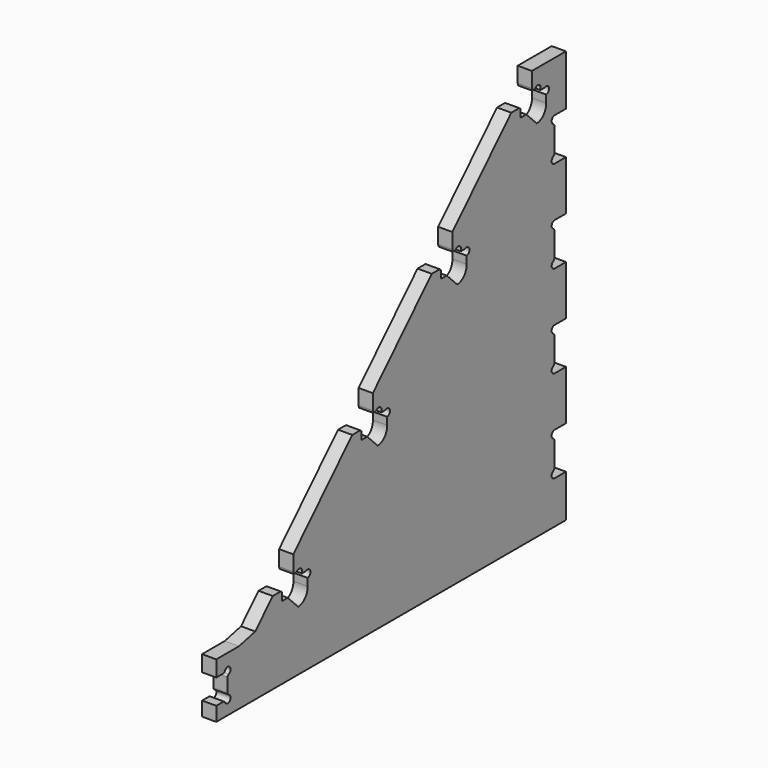
from build123d import *

# Parameters (mm, degrees)
F1_DEPTH = 12.7
F2_DEPTH = 12.7
F4_DEPTH = 25.4
F6_DEPTH = 25.4
F8_DEPTH = 25.4


with BuildPart() as f1:
    # F0 (on Right) → F1 (new body)
    with BuildSketch(Plane.YZ):
        Polygon((304.799962, -64.221394), (304.799962, 304.800038), (266.7, 304.85419), (-42.510699, -10.741028), (-60.690689, -14.973944), (-60.690689, -19.789347), (-60.690689, -29.296394), (-60.690689, -64.221394), align=None)
        Polygon((-86.090689, -64.221394), (-60.690689, -64.221394), (-60.690689, -29.296394), (-60.690689, -19.789347), (-60.690689, -14.973944), (-86.090689, -14.973944), align=None)
    extrude(amount=F1_DEPTH)

    # F0 (on Right) → F2 (join)
    with BuildSketch(Plane.YZ):
        Polygon((304.799962, -64.221394), (304.799962, 304.800038), (266.7, 304.85419), (-42.510699, -10.741028), (-60.690689, -14.973944), (-60.690689, -19.789347), (-60.690689, -29.296394), (-60.690689, -64.221394), align=None)
        Polygon((-86.090689, -64.221394), (-60.690689, -64.221394), (-60.690689, -29.296394), (-60.690689, -19.789347), (-60.690689, -14.973944), (-86.090689, -14.973944), align=None)
    extrude(amount=F2_DEPTH)

    # F3 (on face) → F4 (cut)
    with BuildSketch(Plane.YZ.offset(12.7)):
        with BuildLine():
            Line((260.440068, 273.135901), (272.189458, 261.271445))
            ThreePointArc((272.189458, 261.271445), (279.866661, 265.037294), (282.611404, 273.135901))
            Line((282.611404, 273.135901), (282.614132, 279.79518))
            ThreePointArc((282.614132, 279.79518), (285.773725, 284.060884), (280.770869, 285.835901))
            Line((280.770869, 285.835901), (276.240647, 285.835901))
            ThreePointArc((276.240647, 285.835901), (276.167259, 285.912573), (276.174208, 286.018478))
            ThreePointArc((276.174208, 286.018478), (275.105821, 290.411047), (270.654796, 289.620796))
            Line((270.654796, 289.620796), (267.401841, 288.920168))
            ThreePointArc((267.401841, 288.920168), (266.952991, 289.962034), (266.735415, 291.075412))
            Line((266.735415, 291.075412), (266.735415, 304.926464))
            Line((266.735415, 304.926464), (243.648279, 281.326502))
            Line((243.648279, 281.326502), (252.004404, 281.326502))
            ThreePointArc((252.004404, 281.326502), (253.441245, 280.731343), (254.036404, 279.294502))
            Line((254.036404, 279.294502), (254.036404, 273.135901))
            Line((254.036404, 273.135901), (260.440068, 273.135901))
        make_face()
        with BuildLine():
            Line((177.841234, 200.373568), (177.841234, 214.224619))
            Line((177.841234, 214.224619), (154.754098, 190.624658))
            Line((154.754098, 190.624658), (163.110223, 190.624658))
            ThreePointArc((163.110223, 190.624658), (164.547063, 190.029499), (165.142223, 188.592658))
            Line((165.142223, 188.592658), (165.142223, 182.434057))
            Line((165.142223, 182.434057), (171.545887, 182.434057))
            Line((171.545887, 182.434057), (183.295277, 170.569601))
            ThreePointArc((183.295277, 170.569601), (190.972479, 174.33545), (193.717223, 182.434057))
            Line((193.717223, 182.434057), (193.719951, 189.093336))
            ThreePointArc((193.719951, 189.093336), (196.879544, 193.35904), (191.876687, 195.134057))
            Line((191.876687, 195.134057), (187.346465, 195.134057))
            ThreePointArc((187.346465, 195.134057), (187.273078, 195.210729), (187.280027, 195.316634))
            ThreePointArc((187.280027, 195.316634), (186.211639, 199.709203), (181.760615, 198.918952))
            Line((181.760615, 198.918952), (178.507659, 198.218324))
            ThreePointArc((178.507659, 198.218324), (178.05881, 199.26019), (177.841234, 200.373568))
        make_face()
        with BuildLine():
            Line((88.947052, 109.671724), (88.947052, 123.522775))
            Line((88.947052, 123.522775), (65.859917, 99.922814))
            Line((65.859917, 99.922814), (74.216041, 99.922814))
            ThreePointArc((74.216041, 99.922814), (75.652882, 99.327655), (76.248041, 97.890814))
            Line((76.248041, 97.890814), (76.248041, 91.732213))
            Line((76.248041, 91.732213), (82.651706, 91.732213))
            Line((82.651706, 91.732213), (94.401095, 79.867757))
            ThreePointArc((94.401095, 79.867757), (102.078298, 83.633606), (104.823041, 91.732213))
            Line((104.823041, 91.732213), (104.82577, 98.391492))
            ThreePointArc((104.82577, 98.391492), (107.985362, 102.657196), (102.982506, 104.432213))
            Line((102.982506, 104.432213), (98.452284, 104.432213))
            ThreePointArc((98.452284, 104.432213), (98.378896, 104.508885), (98.385845, 104.61479))
            ThreePointArc((98.385845, 104.61479), (97.317458, 109.007359), (92.866434, 108.217108))
            Line((92.866434, 108.217108), (89.613478, 107.51648))
            ThreePointArc((89.613478, 107.51648), (89.164628, 108.558346), (88.947052, 109.671724))
        make_face()
        with BuildLine():
            Line((0.052871, 18.96988), (0.052871, 32.820931))
            Line((0.052871, 32.820931), (-23.034265, 9.22097))
            Line((-23.034265, 9.22097), (-14.67814, 9.22097))
            ThreePointArc((-14.67814, 9.22097), (-13.241299, 8.625811), (-12.64614, 7.18897))
            Line((-12.64614, 7.18897), (-12.64614, 1.030369))
            Line((-12.64614, 1.030369), (-6.242476, 1.030369))
            Line((-6.242476, 1.030369), (5.506914, -10.834087))
            ThreePointArc((5.506914, -10.834087), (13.184117, -7.068238), (15.92886, 1.030369))
            Line((15.92886, 1.030369), (15.931588, 7.689648))
            ThreePointArc((15.931588, 7.689648), (19.091181, 11.955352), (14.088325, 13.730369))
            Line((14.088325, 13.730369), (9.558103, 13.730369))
            ThreePointArc((9.558103, 13.730369), (9.484715, 13.80704), (9.491664, 13.912946))
            ThreePointArc((9.491664, 13.912946), (8.423277, 18.305515), (3.972252, 17.515264))
            Line((3.972252, 17.515264), (0.719297, 16.814636))
            ThreePointArc((0.719297, 16.814636), (0.270447, 17.856502), (0.052871, 18.96988))
        make_face()
    extrude(amount=-F4_DEPTH, mode=Mode.SUBTRACT)

    # F5 (on face) → F6 (cut)
    with BuildSketch(Plane.YZ.offset(12.7)):
        with BuildLine():
            Line((292.099962, -26.121394), (304.799962, -26.121394))
            Line((304.799962, -26.121394), (304.799962, 11.978606))
            Line((304.799962, 11.978606), (292.099962, 11.978606))
            ThreePointArc((292.099962, 11.978606), (288.905703, 9.513217), (290.481334, 5.798542))
            ThreePointArc((290.481334, 5.798542), (291.665592, 4.634162), (292.099962, 3.031173))
            Line((292.099962, 3.031173), (292.099962, -17.173962))
            ThreePointArc((292.099962, -17.173962), (291.665592, -18.77695), (290.481334, -19.941331))
            ThreePointArc((290.481334, -19.941331), (288.905703, -23.656006), (292.099962, -26.121394))
        make_face()
        with BuildLine():
            Line((304.799962, 94.528606), (292.099962, 94.528606))
            ThreePointArc((292.099962, 94.528606), (288.905703, 92.063217), (290.481334, 88.348542))
            ThreePointArc((290.481334, 88.348542), (291.665592, 87.184162), (292.099962, 85.581173))
            Line((292.099962, 85.581173), (292.099962, 65.376038))
            ThreePointArc((292.099962, 65.376038), (291.665592, 63.77305), (290.481334, 62.608669))
            ThreePointArc((290.481334, 62.608669), (288.905703, 58.893994), (292.099962, 56.428606))
            Line((292.099962, 56.428606), (304.799962, 56.428606))
            Line((304.799962, 56.428606), (304.799962, 94.528606))
        make_face()
        with BuildLine():
            Line((304.799962, 177.078606), (292.099962, 177.078606))
            ThreePointArc((292.099962, 177.078606), (288.905703, 174.613217), (290.481334, 170.898542))
            ThreePointArc((290.481334, 170.898542), (291.665592, 169.734162), (292.099962, 168.131173))
            Line((292.099962, 168.131173), (292.099962, 147.926038))
            ThreePointArc((292.099962, 147.926038), (291.665592, 146.32305), (290.481334, 145.158669))
            ThreePointArc((290.481334, 145.158669), (288.905703, 141.443994), (292.099962, 138.978606))
            Line((292.099962, 138.978606), (304.799962, 138.978606))
            Line((304.799962, 138.978606), (304.799962, 177.078606))
        make_face()
        with BuildLine():
            Line((304.799962, 259.628606), (292.099962, 259.628606))
            ThreePointArc((292.099962, 259.628606), (288.905703, 257.163217), (290.481334, 253.448542))
            ThreePointArc((290.481334, 253.448542), (291.665592, 252.284162), (292.099962, 250.681173))
            Line((292.099962, 250.681173), (292.099962, 230.476038))
            ThreePointArc((292.099962, 230.476038), (291.665592, 228.87305), (290.481334, 227.708669))
            ThreePointArc((290.481334, 227.708669), (288.905703, 223.993994), (292.099962, 221.528606))
            Line((292.099962, 221.528606), (304.799962, 221.528606))
            Line((304.799962, 221.528606), (304.799962, 259.628606))
        make_face()
    extrude(amount=-F6_DEPTH, mode=Mode.SUBTRACT)

    # F7 (on face) → F8 (cut)
    with BuildSketch(Plane.YZ.offset(12.7)):
        with BuildLine():
            Line((-78.322477, -29.296394), (-86.090689, -29.296394))
            Line((-86.090689, -29.296394), (-86.090689, -51.521394))
            Line((-86.090689, -51.521394), (-78.322477, -51.521394))
            ThreePointArc((-78.322477, -51.521394), (-77.191976, -51.864906), (-76.4437, -52.779299))
            ThreePointArc((-76.4437, -52.779299), (-71.055822, -53.856261), (-72.132784, -48.468383))
            ThreePointArc((-72.132784, -48.468383), (-73.047177, -47.720107), (-73.390689, -46.589606))
            Line((-73.390689, -46.589606), (-73.390689, -34.228182))
            ThreePointArc((-73.390689, -34.228182), (-73.047177, -33.097682), (-72.132784, -32.349406))
            ThreePointArc((-72.132784, -32.349406), (-71.055822, -26.961528), (-76.4437, -28.03849))
            ThreePointArc((-76.4437, -28.03849), (-77.191976, -28.952883), (-78.322477, -29.296394))
        make_face()
    extrude(amount=-F8_DEPTH, mode=Mode.SUBTRACT)


solid = f1.part
